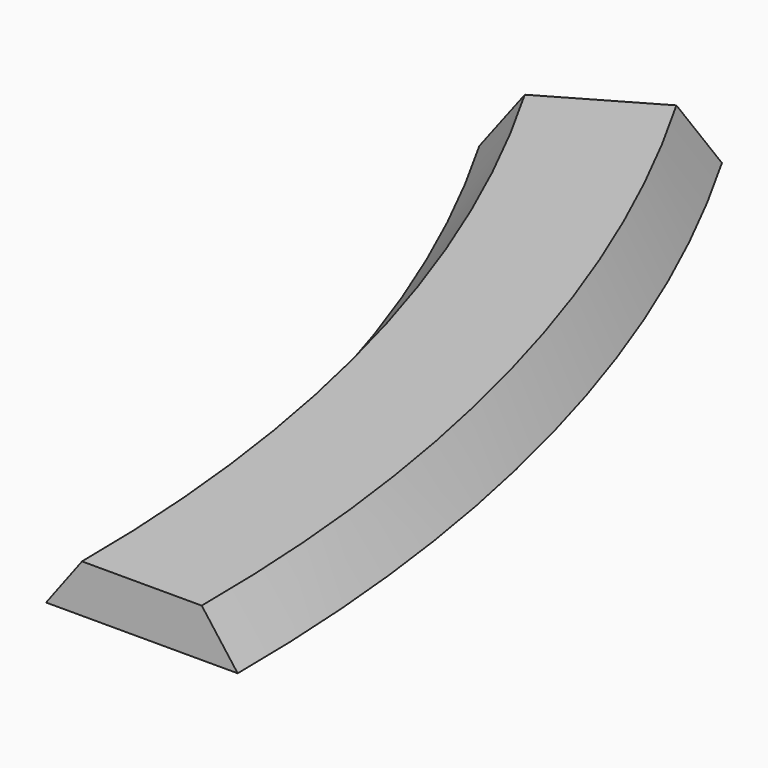
from build123d import *


with BuildPart() as f2:
    # F2: sweep along a path in F1
    with BuildLine(Plane.XY) as f2_path:
        ThreePointArc((0, 0), (-12.2667025359, 93.1748562369), (-48.2308546376, 180))
    # F0 (on Front) → F2 (sweep)
    with BuildSketch(Plane.XZ):
        Polygon((-12.5, 10), (-20, 0), (20, 0), (12.5, 10), align=None)
    sweep(path=f2_path.line)


solid = f2.part
